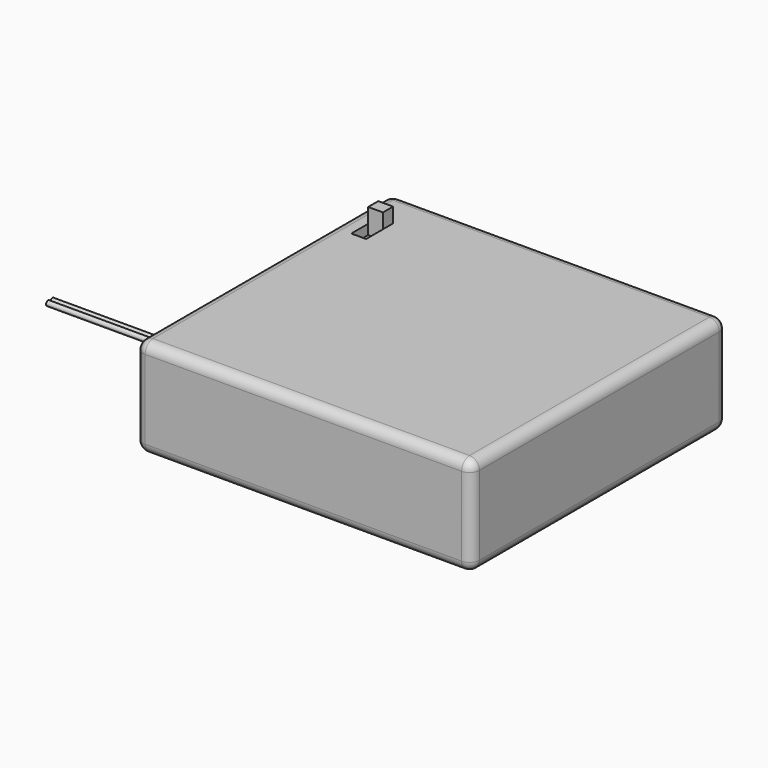
from build123d import *

# Parameters (mm, degrees)
F0_W      = 68
F0_H      = 64.6
F1_DEPTH  = 20
F2_R      = 2
F3_W      = 3
F3_H      = 6.8213130001
F4_DEPTH  = 2
F5_W      = 3
F5_H      = 2.5574813623
F6_DEPTH  = 5
F7_R      = 0.5
F8_DEPTH  = 25
F9_W      = 64
F9_H      = 60.6
F9_R      = 2.5
F10_DEPTH = 1


with BuildPart() as f1:
    # F0 (on Top) → F1 (new body)
    with BuildSketch(Plane.XY):
        with Locations((34, -32.3)):
            Rectangle(F0_W, F0_H)
    extrude(amount=F1_DEPTH)

    # F2
    f2_edges = [f1.edges().sort_by_distance(p)[0] for p in [
        (34, 0, 20),
        (0, -32.3, 20),
        (34, -64.6, 20),
        (68, -32.3, 20),
        (34, 0, 0),
        (0, -32.3, 0),
        (34, -64.6, 0),
        (68, -32.3, 0),
        (68, -64.6, 10),
        (68, 0, 10),
        (0, 0, 10),
        (0, -64.6, 10),
    ]]
    fillet(f2_edges, radius=F2_R)

    # F3 (on face) → F4 (cut)
    with BuildSketch(Plane.XY.offset(20)):
        with Locations((5.5, -11.5893434999)):
            Rectangle(F3_W, F3_H)
    extrude(amount=-F4_DEPTH, mode=Mode.SUBTRACT)

    # F5 (on face) → F6 (join)
    with BuildSketch(Plane.XY.offset(18)):
        with Locations((5.5, -9.457427681)):
            Rectangle(F5_W, F5_H)
    extrude(amount=F6_DEPTH)

    # F7 (on face) → F8 (join)
    with BuildSketch(Plane(origin=(0, 0, 0), x_dir=(0, -1, 0), z_dir=(-1, 0, 0))):
        with Locations((54.3, 14.6)):
            Circle(F7_R)
        with Locations((55.4, 14.6)):
            Circle(F7_R)
    extrude(amount=F8_DEPTH)

    # F9 (on face) → F10 (cut)
    with BuildSketch(Plane(origin=(0, 0, 0), x_dir=(1, 0, 0), z_dir=(0, 0, -1))):
        with Locations((34, 32.3)):
            Rectangle(F9_W, F9_H)
        with Locations((6, 32.3)):
            Circle(F9_R, mode=Mode.SUBTRACT)
        with Locations((6, 32.3)):
            Circle(F9_R)
    extrude(amount=-F10_DEPTH, mode=Mode.SUBTRACT)


solid = f1.part
